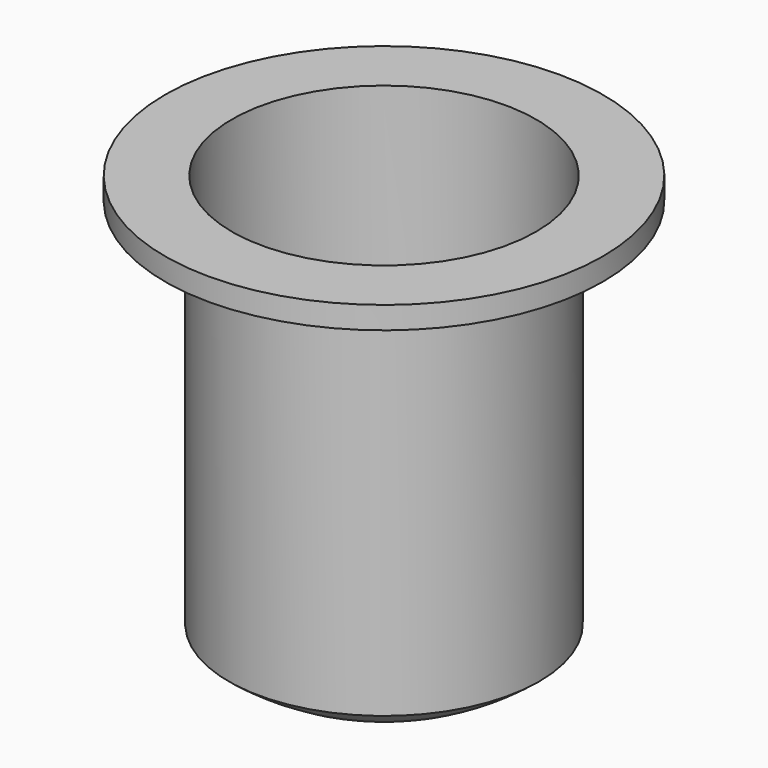
from build123d import *

# Parameters (mm, degrees)
F2_R     = 25
F3_DEPTH = 87.7511


with BuildPart() as f1:
    # F0 (on Front) → F1 (revolve)
    with BuildSketch(Plane.XZ):
        with BuildLine():
            ThreePointArc((245, 0), (129.298665, -61.504004), (0, -82.7501))
            Line((0, -82.7501), (0, -87.7501))
            ThreePointArc((0, -87.7501), (132.476489, -65.175563), (250, 0))
            Line((250, 0), (250, 600))
            Line((250, 600), (352.5, 600))
            Line((352.5, 600), (352.5, 636))
            Line((352.5, 636), (245, 636))
            Line((245, 636), (245, 0))
        make_face()
    revolve(axis=Axis((0, 0, 24.765719), (0, 0, -1)))

    # F2 (on Top) → F3 (cut, through all)
    with BuildSketch(Plane.XY):
        Circle(F2_R)
    extrude(amount=-F3_DEPTH, mode=Mode.SUBTRACT)


solid = f1.part
